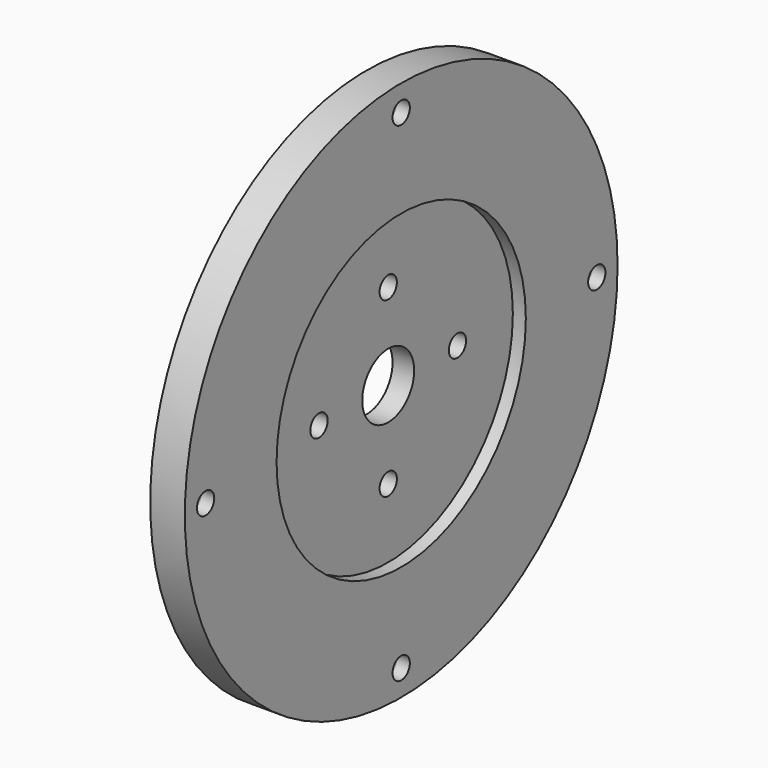
from build123d import *

# Parameters (mm, degrees)
F0_R     = 62.5
F0_R_2   = 2.5
F0_R_3   = 36
F1_DEPTH = 3
F0_R_4   = 7.5
F2_DEPTH = 5


with BuildPart() as f1:
    # F0 (on Right) → F1 (new body)
    with BuildSketch(Plane.YZ):
        Circle(F0_R)
        with Locations((0, -56.5)):
            Circle(F0_R_2, mode=Mode.SUBTRACT)
        with Locations((-56.5, 0)):
            Circle(F0_R_2, mode=Mode.SUBTRACT)
        Circle(F0_R_3, mode=Mode.SUBTRACT)
        with Locations((56.5, 0)):
            Circle(F0_R_2, mode=Mode.SUBTRACT)
        with Locations((0, 56.5)):
            Circle(F0_R_2, mode=Mode.SUBTRACT)
    extrude(amount=F1_DEPTH)

    # F0 (on Right) → F2 (join)
    with BuildSketch(Plane.YZ):
        Circle(F0_R)
        with Locations((0, -56.5)):
            Circle(F0_R_2, mode=Mode.SUBTRACT)
        with Locations((-56.5, 0)):
            Circle(F0_R_2, mode=Mode.SUBTRACT)
        Circle(F0_R_3, mode=Mode.SUBTRACT)
        with Locations((56.5, 0)):
            Circle(F0_R_2, mode=Mode.SUBTRACT)
        with Locations((0, 56.5)):
            Circle(F0_R_2, mode=Mode.SUBTRACT)
        Circle(F0_R_3)
        with Locations((0, -20)):
            Circle(F0_R_2, mode=Mode.SUBTRACT)
        with Locations((-20, 0)):
            Circle(F0_R_2, mode=Mode.SUBTRACT)
        Circle(F0_R_4, mode=Mode.SUBTRACT)
        with Locations((20, 0)):
            Circle(F0_R_2, mode=Mode.SUBTRACT)
        with Locations((0, 20)):
            Circle(F0_R_2, mode=Mode.SUBTRACT)
    extrude(amount=-F2_DEPTH)


solid = f1.part
